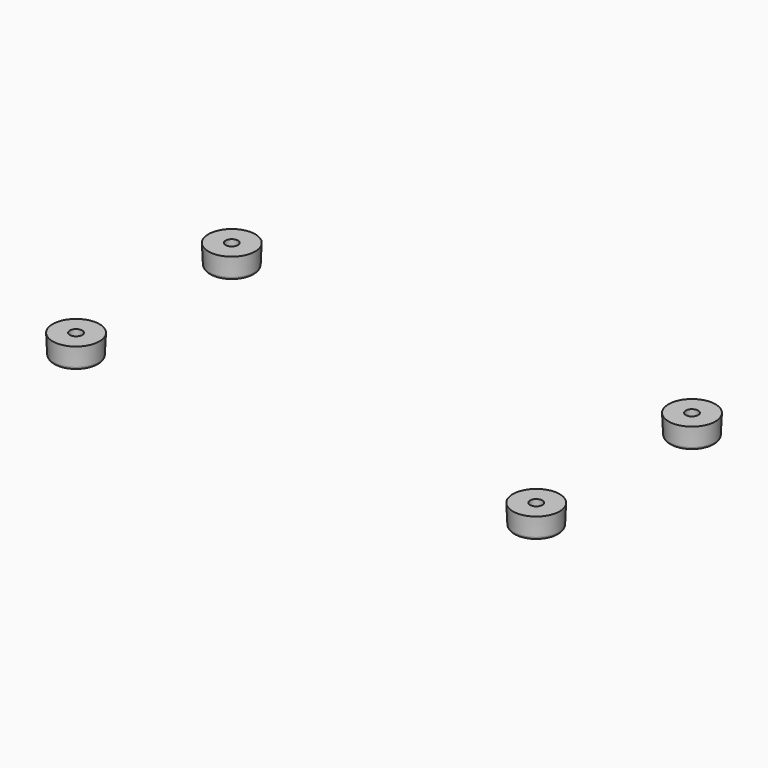
from build123d import *

# Parameters (mm, degrees)
FILLET003_R   = 0.75
ARRAY_X_COUNT = 2
ARRAY_X_PITCH = 130
ARRAY_Y_COUNT = 2
ARRAY_Y_PITCH = 55


with BuildPart() as part:
    # Sketch009 → Revolution (revolve)
    with BuildSketch(Plane.XZ):
        Polygon((6.35, -8.51), (3.75, -8.51), (3.75, -5.01), (1.75, -5.01), (1.75, -2.51), (6.611966, -2.51), align=None)
    revolve(axis=Axis((0, 0, 0), (0, 0, 1)))

    # Fillet003
    fillet003_edges = [part.edges().sort_by_distance(p)[0] for p in [
        (-6.35, 0, -8.51),
    ]]
    fillet(fillet003_edges, radius=FILLET003_R)


with BuildPart() as part_1:
    # Body002 placement: moved
    add(part.part.moved(Location((-65, -27.5, 0))))

    # Array X: part ×2


with BuildPart() as part_2:
    add(part_1.part)
    with Locations(*[(i * ARRAY_X_PITCH, 0, 0) for i in range(1, ARRAY_X_COUNT)]):
        add(part_1.part)

    # Array Y: part ×2


with BuildPart() as part_3:
    add(part_2.part)
    with Locations(*[(0, i * ARRAY_Y_PITCH, 0) for i in range(1, ARRAY_Y_COUNT)]):
        add(part_2.part)


solid = part_3.part
